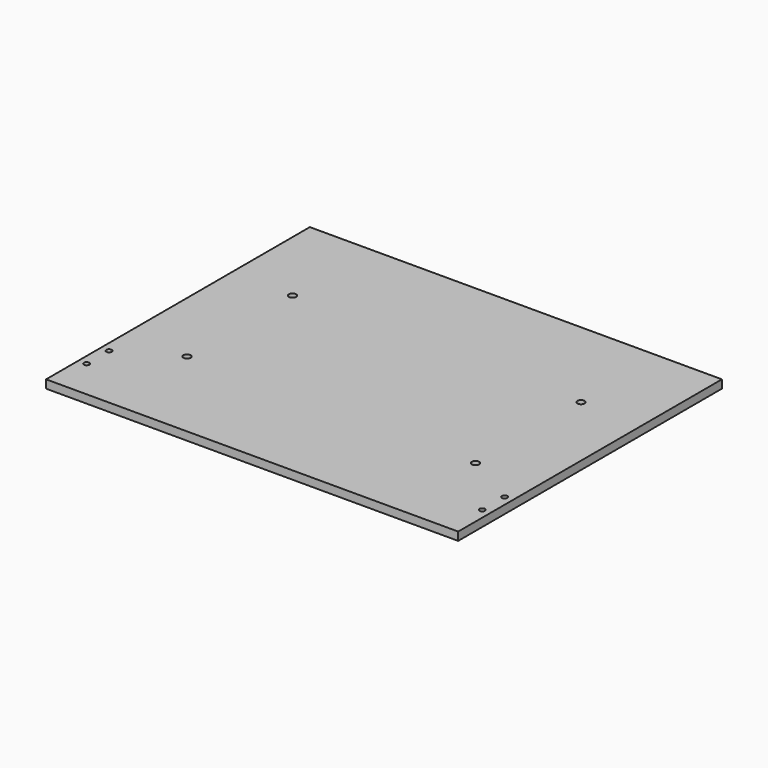
from build123d import *

# Parameters (mm, degrees)
F1_DEPTH = 5
F2_D     = 4.4
F3_D     = 3.3


with BuildPart() as f1:
    # F0 (on Top) → F1 (new body)
    with BuildSketch(Plane.XY):
        Polygon((125, 100), (-125, 100), (-125, -54), (-125, -80), (-125, -100), (125, -100), align=None)
    extrude(amount=F1_DEPTH)

    # F2 (through all)
    with Locations(Plane(origin=(0, 0, 0), x_dir=(1, 0, 0), z_dir=(0, 0, -1))):
        with Locations((-87.5, -40), (87.5, -40), (-87.5, 40), (87.5, 40)):
            Hole(F2_D / 2)

    # F3 (through all)
    with Locations(Plane(origin=(0, 0, 0), x_dir=(1, 0, 0), z_dir=(0, 0, -1))):
        with Locations((-120, 58.5), (-120, 75.5), (120, 75.5), (120, 58.5)):
            Hole(F3_D / 2)


solid = f1.part
